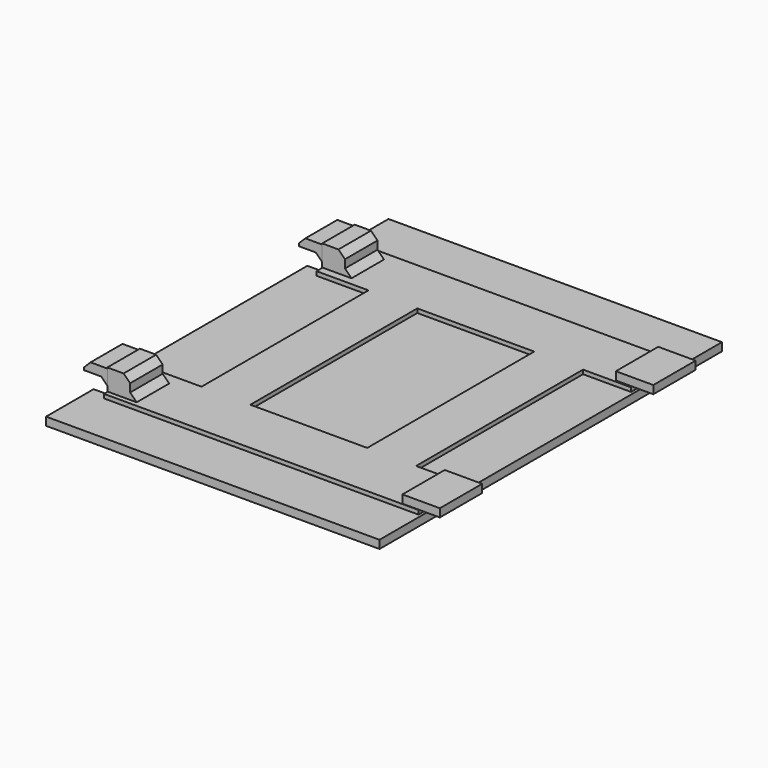
from build123d import *

# Parameters (mm, degrees)
PAD012_DEPTH    = 1
SKETCH027_W     = 2.8
SKETCH027_H     = 5
PAD013_DEPTH    = 3.1
SKETCH028_W     = 14.36185
SKETCH028_H     = 25.638802
PAD014_DEPTH    = 0.5
SKETCH029_W     = 4.6
SKETCH029_H     = 6.5
PAD015_DEPTH    = 1
SKETCH030_W     = 4.91
SKETCH030_H     = 1.11
PAD016_DEPTH    = 2.9
CHAMFER003_SIZE = 0.8


with BuildPart() as part:
    # Sketch026 → Pad012 (new body)
    with BuildSketch(Plane.XY.offset(-6.5)):
        Polygon((-24.727272, 35.025402), (16.242728, 35.025402), (16.242728, -17.564598), (-24.727272, -17.564598), (-24.727272, -10.26), (-22.927272, -10.26), (-22.927272, -5.76), (-24.727272, -5.76), (-24.727272, 22.57), (-22.927272, 22.57), (-22.927272, 27.07), (-24.727272, 27.07), align=None)
    extrude(amount=PAD012_DEPTH)

    # Sketch027 (on Face14 of Pad012) → Pad013 (join)
    with BuildSketch(Plane.XY.offset(-5.5)):
        with Locations((-21.4, -8.066671)):
            Rectangle(SKETCH027_W, SKETCH027_H)
        with Locations((-21.4, 24.933329)):
            Rectangle(SKETCH027_W, SKETCH027_H)
    extrude(amount=PAD013_DEPTH)

    # Sketch028 (on Face5 of Pad013) → Pad014 (join)
    with BuildSketch(Plane.XY.offset(-5.5)):
        Polygon((15.9, -11.144853), (-22.75, -11.144853), (-22.75, -4.144854), (-16.362574, -4.144854), (-16.362574, 21.495147), (-22.75, 21.495147), (-22.75, 28.495147), (15.9, 28.495147), (15.9, 21.495148), (9.999276, 21.495148), (9.999276, -4.144854), (15.9, -4.144854), align=None)
        with Locations((-3.181649, 8.674547)):
            Rectangle(SKETCH028_W, SKETCH028_H, mode=Mode.SUBTRACT)
    extrude(amount=PAD014_DEPTH)

    # Sketch029 (on Face35 of Pad014) → Pad015 (join)
    with BuildSketch(Plane.XY.offset(-5)):
        with Locations((16.17, 24.951215)):
            Rectangle(SKETCH029_W, SKETCH029_H)
        with Locations((16.17, -7.83)):
            Rectangle(SKETCH029_W, SKETCH029_H)
    extrude(amount=PAD015_DEPTH)

    # Sketch030 (on Face34 of Pad015) → Pad016 (join)
    with BuildSketch(Plane(origin=(-22.8, 0, 0), x_dir=(0, -1, 0), z_dir=(-1, 0, 0))):
        with Locations((-24.925, -3.103053)):
            Rectangle(SKETCH030_W, SKETCH030_H)
        with Locations((8.065, -3.103053)):
            Rectangle(SKETCH030_W, SKETCH030_H)
    extrude(amount=PAD016_DEPTH)

    # Chamfer003
    chamfer003_edges = [part.edges().sort_by_distance(p)[0] for p in [
        (-25.7, 24.925, -2.548053),
        (-25.7, -8.065, -2.548053),
        (-20, 24.933329, -2.4),
        (-20, -8.066671, -2.4),
        (-20, 24.933329, -5),
        (-20, -8.066671, -5),
        (-22.8, -8.065, -3.658053),
        (-22.8, 24.925, -3.658053),
    ]]
    chamfer(chamfer003_edges, length=CHAMFER003_SIZE)


with BuildPart() as part_1:
    # Body005 placement: moved
    add(part.part.moved(Location((1, 2, -1.7))))


solid = part_1.part
